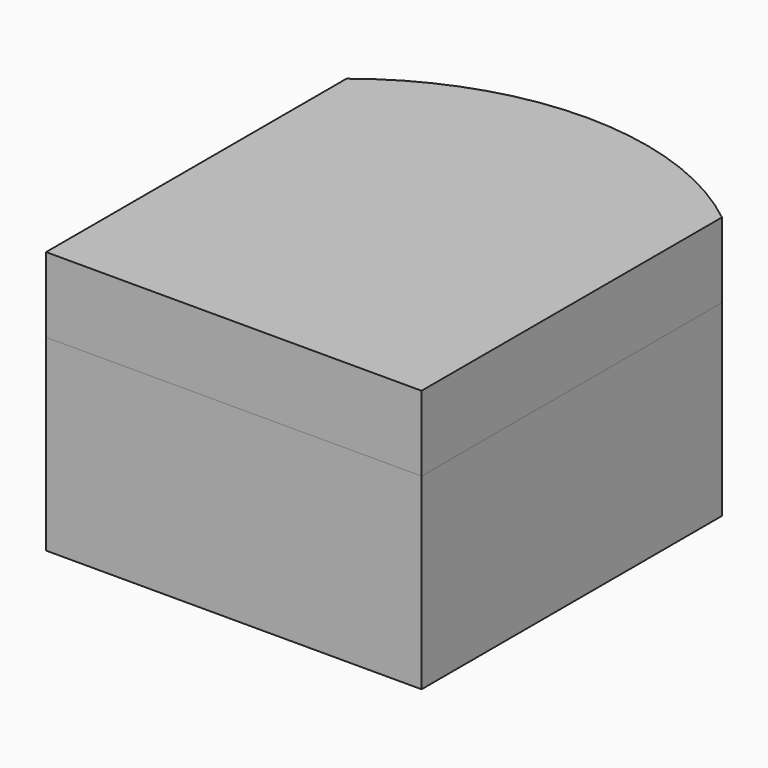
from build123d import *

# Parameters (mm, degrees)
F0_W     = 50
F0_H     = 50
F1_DEPTH = 25
F2_DEPTH = 10
F3_T     = -2.5
F3_2_T   = -2.5


with BuildPart() as f1:
    # F0 (on Top) → F1 (new body)
    with BuildSketch(Plane.XY):
        Rectangle(F0_W, F0_H)
        with BuildLine():
            ThreePointArc((25, 25), (0, 33.775010008), (-25, 25))
            Line((-25, 25), (25, 25))
        make_face()
    extrude(amount=-F1_DEPTH)

    # F3
    f3_openings = [f1.faces().sort_by_distance(p)[0] for p in [
        (0, 3.054648, 0),
    ]]
    offset(amount=F3_T, openings=f3_openings)


with BuildPart() as f2:
    # F0 (on Top) → F2 (new body)
    with BuildSketch(Plane.XY):
        with BuildLine():
            ThreePointArc((25, 25), (0, 33.775010008), (-25, 25))
            Line((-25, 25), (25, 25))
        make_face()
        Rectangle(F0_W, F0_H)
    extrude(amount=F2_DEPTH)

    # F3#2
    f3_2_openings = [f2.faces().sort_by_distance(p)[0] for p in [
        (0, 3.054648, 0),
    ]]
    offset(amount=F3_2_T, openings=f3_2_openings)


solid = Compound([f1.part, f2.part])
